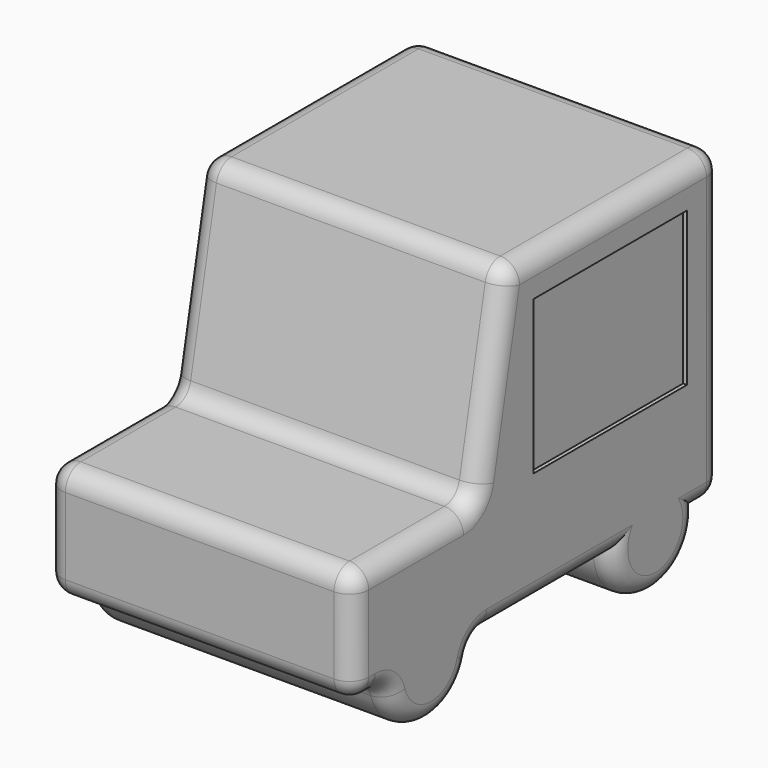
from build123d import *

# Parameters (mm, degrees)
F1_DEPTH = 40
F2_R     = 5
F3_W     = 50
F3_H     = 40
F4_DEPTH = 1


with BuildPart() as f1:
    # F0 (on Right) → F1 (new body, symmetric)
    with BuildSketch(Plane.YZ):
        with BuildLine():
            ThreePointArc((4.6023512578, 12.0836236967), (18.5654944992, 26.0467669382), (32.5286377407, 12.0836236967))
            Line((32.5286377407, 12.0836236967), (40.2273690835, 12.0836236967))
            Line((40.2273690835, 12.0836236967), (40.2273690835, 92.0836236967))
            Line((40.2273690835, 92.0836236967), (-29.7726309165, 92.0836236967))
            Line((-29.7726309165, 92.0836236967), (-39.7726309165, 42.0836236967))
            Line((-39.7726309165, 42.0836236967), (-79.7726309165, 42.0836236967))
            Line((-79.7726309165, 42.0836236967), (-79.7726309165, 12.0836236967))
            Line((-79.7726309165, 12.0836236967), (-68.3018244008, 12.0836236967))
            ThreePointArc((-68.3018244008, 12.0836236967), (-54.4831605593, 25.9022875381), (-40.6644967179, 12.0836236967))
            Line((-40.6644967179, 12.0836236967), (4.6023512578, 12.0836236967))
        make_face()
        with BuildLine():
            Line((-68.3018244008, 12.0836236967), (-40.6644967179, 12.0836236967))
            ThreePointArc((-40.6644967179, 12.0836236967), (-54.4831605593, 25.9022875381), (-68.3018244008, 12.0836236967))
        make_face()
        with BuildLine():
            ThreePointArc((-68.3018244008, 12.0836236967), (-54.4831605593, -1.7350401447), (-40.6644967179, 12.0836236967))
            Line((-40.6644967179, 12.0836236967), (-68.3018244008, 12.0836236967))
        make_face()
        with BuildLine():
            Line((4.6023512578, 12.0836236967), (32.5286377407, 12.0836236967))
            ThreePointArc((32.5286377407, 12.0836236967), (18.5654944992, 26.0467669382), (4.6023512578, 12.0836236967))
        make_face()
        with BuildLine():
            ThreePointArc((4.6023512578, 12.0836236967), (18.5654944992, -1.8795195447), (32.5286377407, 12.0836236967))
            Line((32.5286377407, 12.0836236967), (4.6023512578, 12.0836236967))
        make_face()
    extrude(amount=F1_DEPTH, both=True)

    # F2
    f2_edges = [f1.edges().sort_by_distance(p)[0] for p in [
        (-40, -34.772631, 67.083624),
        (0, -39.772631, 42.083624),
        (40, -34.772631, 67.083624),
        (0, -29.772631, 92.083624),
        (0, -79.772631, 42.083624),
        (-40, -79.772631, 27.083624),
        (0, -79.772631, 12.083624),
        (40, -79.772631, 27.083624),
        (0, -68.301824, 12.083624),
        (-40, -54.483161, -1.73504),
        (0, -40.664497, 12.083624),
        (40, -54.483161, -1.73504),
        (-40, -59.772631, 42.083624),
        (-40, -74.037228, 12.083624),
        (-40, -18.031073, 12.083624),
        (-40, 18.565494, -1.87952),
        (-40, 36.378003, 12.083624),
        (-40, 40.227369, 52.083624),
        (-40, 5.227369, 92.083624),
        (0, 40.227369, 92.083624),
        (40, 40.227369, 52.083624),
        (0, 40.227369, 12.083624),
        (40, -59.772631, 42.083624),
        (40, -74.037228, 12.083624),
        (40, -18.031073, 12.083624),
        (40, 18.565494, -1.87952),
        (40, 36.378003, 12.083624),
        (40, 5.227369, 92.083624),
    ]]
    fillet(f2_edges, radius=F2_R)

    # F3 (on face) → F4 (cut, symmetric)
    with BuildSketch(Plane.YZ.offset(40)):
        with Locations((3.8793236017, 61.9780325047)):
            Rectangle(F3_W, F3_H)
    extrude(amount=F4_DEPTH, both=True, mode=Mode.SUBTRACT)


solid = f1.part
